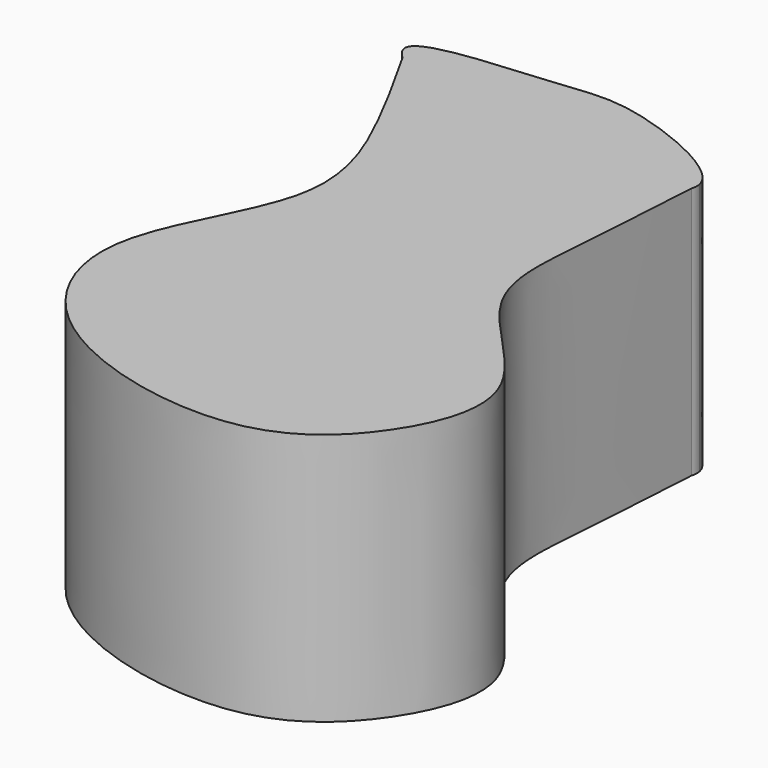
from build123d import *

# Parameters (mm, degrees)
F1_DEPTH = 25


with BuildPart() as f1:
    # F0 (on Top) → F1 (new body)
    with BuildSketch(Plane.XY):
        with BuildLine():
            add(Edge.make_bspline(
                [(-3.3156988859, 19.2862956781), (-3.2977366911, 19.5882230066), (-3.2797865848, 19.8902666103), (-3.2618364785, 20.192310214)],
                knots=[0.9937722308, 0.9937722308, 0.9937722308, 0.9937722308, 1, 1, 1, 1], degree=3))
            add(Edge.make_bspline(
                [(-3.2618364785, 20.192310214), (-3.8184291734, 22.7107801267), (-15.795513292, 27.7435802494), (-21.704021288, 26.2421406393), (-34.9445758403, 25.7064244357), (-35.2588780224, 23.9201188087)],
                knots=[0.4489464131, 0.4489464131, 0.4489464131, 0.4489464131, 0.6450361681, 0.8095860148, 1, 1, 1, 1], degree=3))
            add(Edge.make_bspline(
                [(-35.2588780224, 23.9201188087), (-34.9752769969, 23.422280052), (-34.6916759714, 22.9244412952), (-34.4085686758, 22.4261052172)],
                knots=[0, 0, 0, 0, 0.0128614815, 0.0128614815, 0.0128614815, 0.0128614815], degree=3))
            add(Edge.make_bspline(
                [(-34.4085686758, 22.4261052172), (-31.5226835963, 19.8109614007), (-14.5166865308, 13.4081104144), (-4.0182506034, 17.2315768863), (-3.3156988859, 19.2862956781)],
                knots=[0.0454335892, 0.0454335892, 0.0454335892, 0.0454335892, 0.259039548, 0.4250585885, 0.4250585885, 0.4250585885, 0.4250585885], degree=3))
        make_face()
        with BuildLine():
            add(Edge.make_bspline(
                [(-3.3156988859, 19.2862956781), (-3.2146114915, 19.5819410573), (-3.1940318719, 19.8855080172), (-3.2618364785, 20.192310214)],
                knots=[0.4250585885, 0.4250585885, 0.4250585885, 0.4250585885, 0.4489464131, 0.4489464131, 0.4489464131, 0.4489464131], degree=3))
            add(Edge.make_bspline(
                [(-3.3156988859, 19.2862956781), (-3.2977366911, 19.5882230066), (-3.2797865848, 19.8902666103), (-3.2618364785, 20.192310214)],
                knots=[0.9937722308, 0.9937722308, 0.9937722308, 0.9937722308, 1, 1, 1, 1], degree=3))
        make_face()
        with BuildLine():
            add(Edge.make_bspline(
                [(-35.2588780224, 23.9201188087), (-34.9752769969, 23.422280052), (-34.6916759714, 22.9244412952), (-34.4085686758, 22.4261052172)],
                knots=[0, 0, 0, 0, 0.0128614815, 0.0128614815, 0.0128614815, 0.0128614815], degree=3))
            add(Edge.make_bspline(
                [(-35.2588780224, 23.9201188087), (-35.3338718639, 23.4938986658), (-35.0223910514, 22.982341431), (-34.4085686758, 22.4261052172)],
                knots=[0, 0, 0, 0, 0.0454335892, 0.0454335892, 0.0454335892, 0.0454335892], degree=3))
        make_face()
        with BuildLine():
            add(Edge.make_bspline(
                [(-34.4085686758, 22.4261052172), (-32.5534979962, 19.1607402435), (-28.6326743456, 12.1337281238), (-23.5049306618, -0.3507335857), (-35.2455034856, -15.2108562922), (-28.0861024706, -30.9764476259), (-5.8286361417, -36.038023833), (4.1798464422, -27.9423844826), (9.1182215464, -15.4940655721), (-5.2270283559, -5.4123596258), (-4.1245925372, 5.8335465246), (-3.5910410236, 14.658057464), (-3.3156988859, 19.2862956781)],
                knots=[0.0128614815, 0.0128614815, 0.0128614815, 0.0128614815, 0.0971367987, 0.1930423509, 0.3025845084, 0.4042776228, 0.5259309611, 0.6185950126, 0.7071150831, 0.8106706406, 0.8983068766, 0.9937722308, 0.9937722308, 0.9937722308, 0.9937722308], degree=3))
            add(Edge.make_bspline(
                [(-34.4085686758, 22.4261052172), (-31.5226835963, 19.8109614007), (-14.5166865308, 13.4081104144), (-4.0182506034, 17.2315768863), (-3.3156988859, 19.2862956781)],
                knots=[0.0454335892, 0.0454335892, 0.0454335892, 0.0454335892, 0.259039548, 0.4250585885, 0.4250585885, 0.4250585885, 0.4250585885], degree=3))
        make_face()
    extrude(amount=F1_DEPTH)


solid = f1.part
